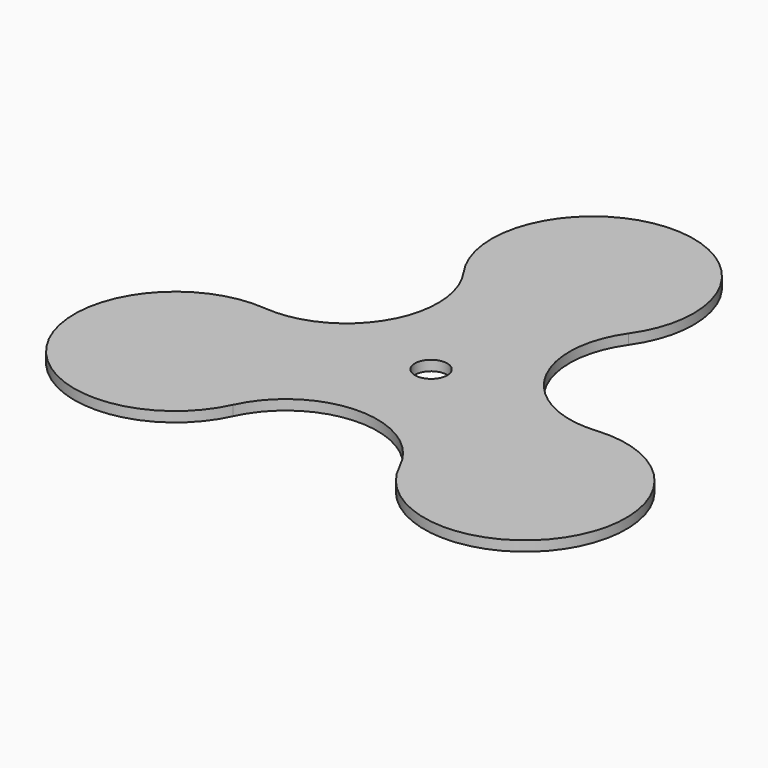
from build123d import *

# Parameters (mm, degrees)
F0_R     = 100
F0_R_2   = 20
F1_DEPTH = 12.5


with BuildPart() as f1:
    # F0 (on Top) → F1 (new body)
    with BuildSketch(Plane.XY):
        with BuildLine():
            ThreePointArc((205.158335, -0.516176), (96.574996, 55.7576), (102.132146, 177.930417))
            ThreePointArc((102.132146, 177.930417), (0, 375), (-102.132146, 177.930417))
            ThreePointArc((-102.132146, 177.930417), (-96.574996, 55.7576), (-205.158335, -0.516176))
            ThreePointArc((-205.158335, -0.516176), (-324.759526, -187.5), (-103.026189, -177.414242))
            ThreePointArc((-103.026189, -177.414242), (0, -111.5152), (103.026189, -177.414242))
            ThreePointArc((103.026189, -177.414242), (324.759526, -187.5), (205.158335, -0.516176))
        make_face()
        Circle(F0_R, mode=Mode.SUBTRACT)
        Circle(F0_R)
        Circle(F0_R_2, mode=Mode.SUBTRACT)
    extrude(amount=F1_DEPTH)


solid = f1.part
